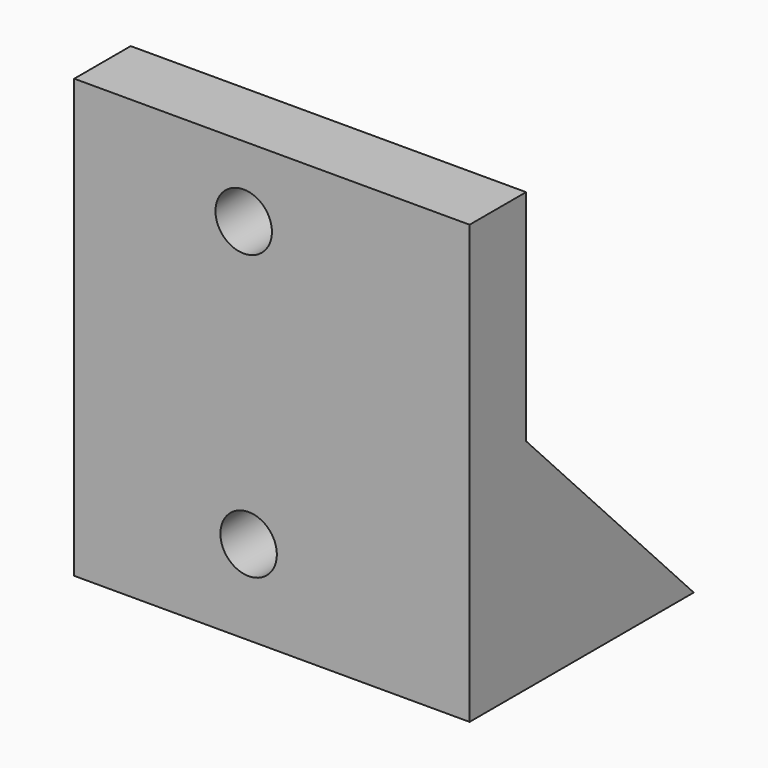
from build123d import *

# Parameters (mm, degrees)
SKETCH_W        = 28
SKETCH_H        = 31
PAD_DEPTH       = 5
PAD001_DEPTH    = 28
SKETCH003_W     = 10
SKETCH003_H     = 15.030744
POCKET001_DEPTH = 15.586957
SKETCH005_R     = 3
POCKET_DEPTH    = 10.5
SKETCH006_R     = 1.75
POCKET003_DEPTH = 15.586957
SKETCH007_R     = 2
POCKET004_DEPTH = 5


with BuildPart() as part:
    # Sketch → Pad (new body)
    with BuildSketch(Plane.XZ):
        Rectangle(SKETCH_W, SKETCH_H)
    extrude(amount=PAD_DEPTH)

    # Sketch002 → Pad001 (join)
    with BuildSketch(Plane(origin=(14, 0, 0), x_dir=(0, 0, 1), z_dir=(1, 0, 0))):
        Polygon((-15.5, 0), (-0.028702, 0), (-15.5, -14.844726), align=None)
    extrude(amount=-PAD001_DEPTH)

    # Sketch003 (on DatumPlane) → Pocket001 (cut, through all)
    with BuildSketch(Plane(origin=(0, -0.014339, -0.013758), x_dir=(1, 0, 0), z_dir=(0, 0.020664, 0.999786))):
        with Locations((0, 7.659873)):
            Rectangle(SKETCH003_W, SKETCH003_H)
    extrude(amount=-POCKET001_DEPTH, mode=Mode.SUBTRACT)

    # Sketch005 (on DatumPlane) → Pocket (cut)
    with BuildSketch(Plane(origin=(0, -0.014339, -0.013758), x_dir=(1, 0, 0), z_dir=(0, 0.020664, 0.999786))):
        with Locations((-9.5, 7.175894)):
            Circle(SKETCH005_R)
        with Locations((9.5, 7.175894)):
            Circle(SKETCH005_R)
    extrude(amount=-POCKET_DEPTH, mode=Mode.SUBTRACT)

    # Sketch006 (on DatumPlane) → Pocket003 (cut, through all)
    with BuildSketch(Plane(origin=(0, -0.014339, -0.013758), x_dir=(1, 0, 0), z_dir=(0, 0.020664, 0.999786))):
        with Locations((-9.5, 7.175894)):
            Circle(SKETCH006_R)
        with Locations((9.5, 7.175894)):
            Circle(SKETCH006_R)
    extrude(amount=-POCKET003_DEPTH, mode=Mode.SUBTRACT)

    # Sketch007 (on DatumPlane) → Pocket004 (cut)
    with BuildSketch(Plane.XZ.offset(5)):
        with Locations((-1.65, -9.5)):
            Circle(SKETCH007_R)
        with Locations((-2, 10.5)):
            Circle(SKETCH007_R)
    extrude(amount=-POCKET004_DEPTH, mode=Mode.SUBTRACT)


solid = part.part
